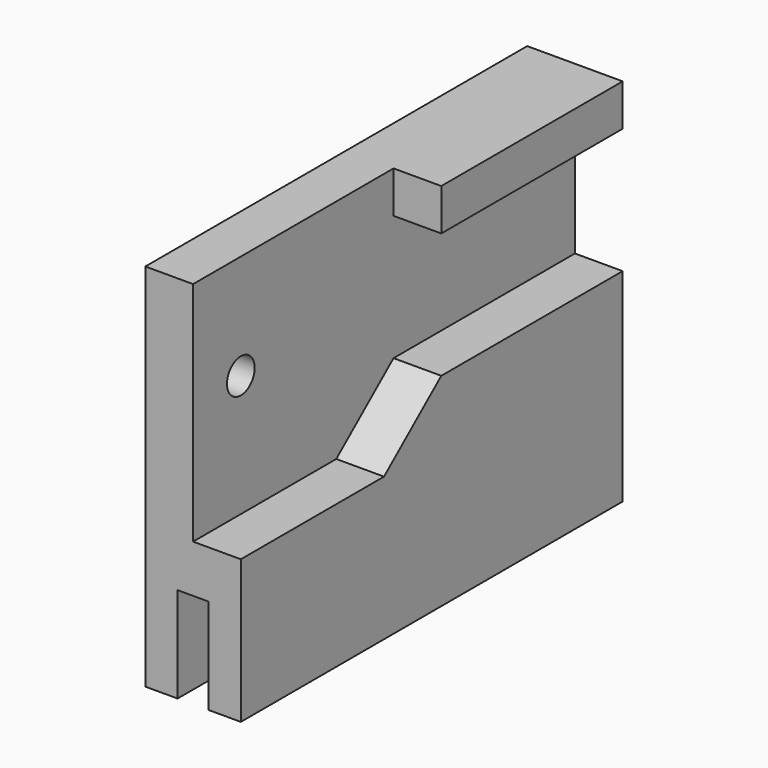
from build123d import *

# Parameters (mm, degrees)
F1_DEPTH = 20
F3_DEPTH = 4
F4_R     = 1.45
F5_DEPTH = 25


with BuildPart() as f1:
    # F0 (on Front) → F1 (new body, symmetric)
    with BuildSketch(Plane.XZ):
        Polygon((4, -15.5), (4, 15.5), (-4, 15.5), (-4, -15.5), (-1.3, -15.5), (-1.3, -7.5), (1.3, -7.5), (1.3, -15.5), align=None)
    extrude(amount=F1_DEPTH, both=True)

    # F2 (on face) → F3 (cut, through all)
    with BuildSketch(Plane.YZ.offset(4)):
        Polygon((-20, 15.5), (-20, -3.5), (-5, -3.5), (1, 1.5), (20, 1.5), (20, 12), (1, 12), (1, 15.5), align=None)
    extrude(amount=-F3_DEPTH, mode=Mode.SUBTRACT)

    # F4 (on face) → F5 (cut)
    with BuildSketch(Plane.YZ):
        with Locations((-15, 6.7)):
            Circle(F4_R)
    extrude(amount=-F5_DEPTH, mode=Mode.SUBTRACT)


solid = f1.part
